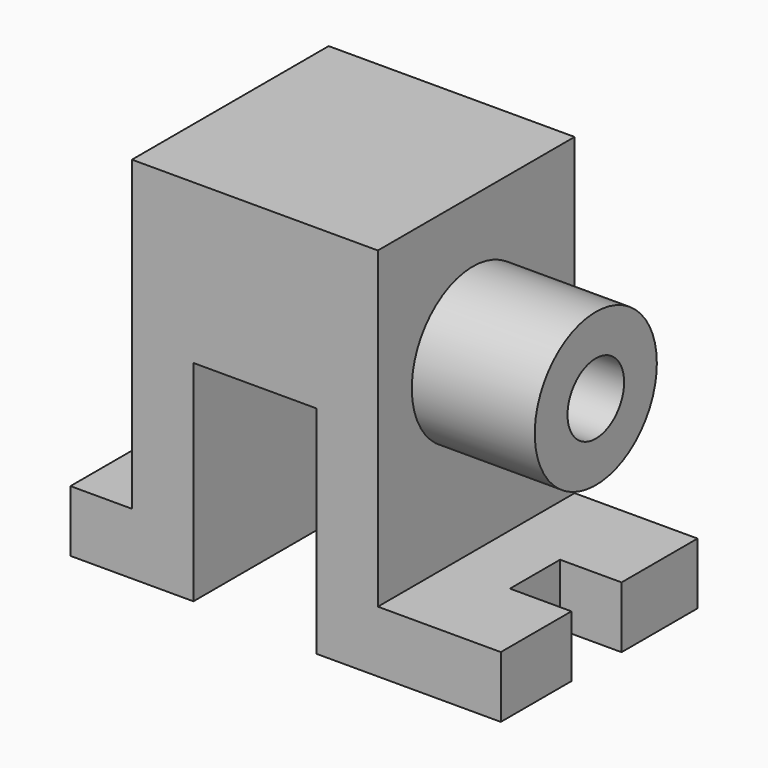
from build123d import *

# Parameters (mm, degrees)
F1_DEPTH = 20
F2_W     = 5.096997
F2_H     = 5
F3_DEPTH = 5
F4_R     = 6.206102
F4_R_2   = 2.876814
F5_DEPTH = 10


with BuildPart() as f1:
    # F0 (on Front) → F1 (new body)
    with BuildSketch(Plane.XZ):
        Polygon((-24.904566, -6.015427), (-24.904566, -11.015427), (-14.904566, -11.015427), (-14.904566, 6.053293), (-4.904566, 6.053293), (-4.904566, -11.519182), (10.095434, -11.519182), (10.095434, -6.519182), (0.095434, -6.519182), (0.095434, 18.984573), (-19.904566, 18.984573), (-19.904566, -6.015427), align=None)
    extrude(amount=F1_DEPTH)

    # F2 (on face) → F3 (cut)
    with BuildSketch(Plane.YZ.offset(10.095434)):
        with Locations((-10.272534, -9.019182)):
            Rectangle(F2_W, F2_H)
    extrude(amount=-F3_DEPTH, mode=Mode.SUBTRACT)


with BuildPart() as f5:
    # F4 (on face) → F5 (new body)
    with BuildSketch(Plane.YZ.offset(0.095434)):
        with Locations((-10.343011, 7.712185)):
            Circle(F4_R)
        with Locations((-10.343011, 7.712185)):
            Circle(F4_R_2, mode=Mode.SUBTRACT)
    extrude(amount=F5_DEPTH)


solid = Compound([f1.part, f5.part])
